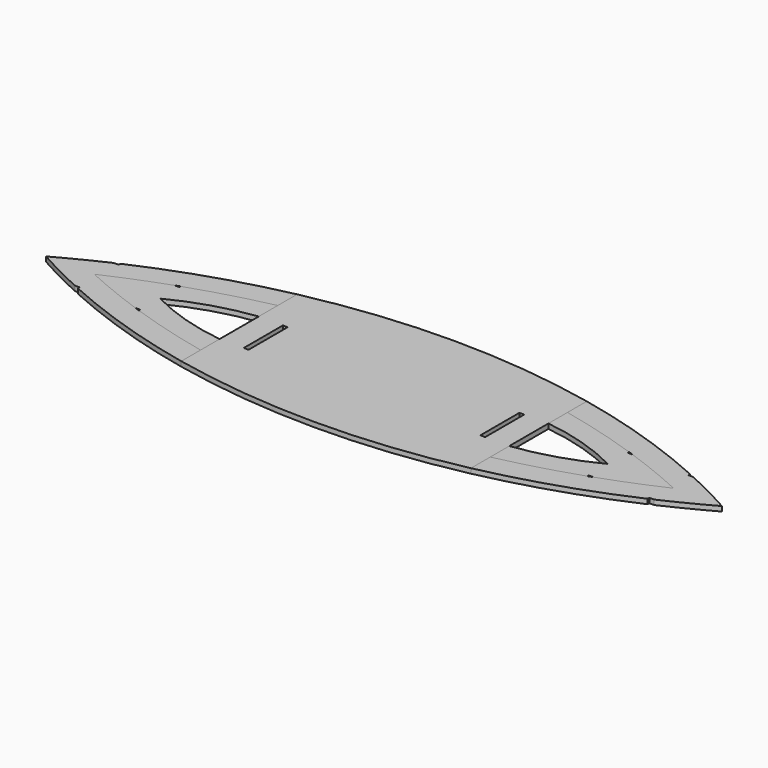
from build123d import *

# Parameters (mm, degrees)
F1_DEPTH = 10
F0_W     = 10
F0_H     = 101.273576
F2_DEPTH = 10
F3_DEPTH = 10


with BuildPart() as f1:
    # F0 (on Top) → F1 (new body)
    with BuildSketch(Plane.XY):
        with BuildLine():
            ThreePointArc((590, 55.174481), (447.518681, 110.289992), (300, 150))
            Line((300, 150), (300, 100))
            ThreePointArc((300, 100), (382.90347, 79.441189), (464.473721, 54.104573))
            ThreePointArc((464.473721, 54.104573), (469.47684, 52.379676), (474.473721, 50.636788))
            ThreePointArc((474.473721, 50.636788), (537.81967, 26.763153), (600, 0))
            ThreePointArc((600, 0), (537.81967, -26.763153), (474.473721, -50.636788))
            ThreePointArc((474.473721, -50.636788), (469.47684, -52.379676), (464.473721, -54.104573))
            ThreePointArc((464.473721, -54.104573), (382.90347, -79.441189), (300, -100))
            Line((300, -100), (300, -150))
            ThreePointArc((300, -150), (447.518681, -110.289992), (590, -55.174481))
            Line((590, -55.174481), (590, -50.636788))
            Line((590, -50.636788), (600, -50.636788))
            ThreePointArc((600, -50.636788), (650.492906, -26.291809), (700, 0))
            ThreePointArc((700, 0), (650.492906, 26.291809), (600, 50.636788))
            Line((600, 50.636788), (590, 50.636788))
            Line((590, 50.636788), (590, 55.174481))
        make_face()
        with BuildLine():
            Line((-300, 100), (-300, 150))
            ThreePointArc((-300, 150), (-447.518681, 110.289992), (-590, 55.174481))
            Line((-590, 55.174481), (-590, 50.636788))
            Line((-590, 50.636788), (-600, 50.636788))
            ThreePointArc((-600, 50.636788), (-650.492906, 26.291809), (-700, 0))
            ThreePointArc((-700, 0), (-650.492906, -26.291809), (-600, -50.636788))
            Line((-600, -50.636788), (-590, -50.636788))
            Line((-590, -50.636788), (-590, -55.174481))
            ThreePointArc((-590, -55.174481), (-447.518681, -110.289992), (-300, -150))
            Line((-300, -150), (-300, -100))
            ThreePointArc((-300, -100), (-382.90347, -79.441189), (-464.473721, -54.104573))
            ThreePointArc((-464.473721, -54.104573), (-469.47684, -52.379676), (-474.473721, -50.636788))
            ThreePointArc((-474.473721, -50.636788), (-537.81967, -26.763153), (-600, 0))
            ThreePointArc((-600, 0), (-537.81967, 26.763153), (-474.473721, 50.636788))
            ThreePointArc((-474.473721, 50.636788), (-469.47684, 52.379676), (-464.473721, 54.104573))
            ThreePointArc((-464.473721, 54.104573), (-382.90347, 79.441189), (-300, 100))
        make_face()
    extrude(amount=F1_DEPTH)


with BuildPart() as f2:
    # F0 (on Top) → F2 (new body)
    with BuildSketch(Plane.XY):
        with BuildLine():
            Line((300, 100), (300, 150))
            ThreePointArc((300, 150), (0, 181.598185), (-300, 150))
            Line((-300, 150), (-300, 100))
            Line((-300, 100), (-300, 50.636788))
            Line((-300, 50.636788), (-300, -50.636788))
            Line((-300, -50.636788), (-300, -100))
            Line((-300, -100), (-300, -150))
            ThreePointArc((-300, -150), (0, -181.598185), (300, -150))
            Line((300, -150), (300, -100))
            Line((300, -100), (300, -50.636788))
            Line((300, -50.636788), (300, 50.636788))
            Line((300, 50.636788), (300, 100))
        make_face()
        with Locations((-245, 0)):
            Rectangle(F0_W, F0_H, mode=Mode.SUBTRACT)
        with Locations((245, 0)):
            Rectangle(F0_W, F0_H, mode=Mode.SUBTRACT)
    extrude(amount=F2_DEPTH)


with BuildPart() as f3:
    # F0 (on Top) → F3 (new body)
    with BuildSketch(Plane.XY):
        with BuildLine():
            Line((-300, 50.636788), (-300, 100))
            ThreePointArc((-300, 100), (-382.90347, 79.441189), (-464.473721, 54.104573))
            Line((-464.473721, 54.104573), (-464.473721, 50.636788))
            Line((-464.473721, 50.636788), (-474.473721, 50.636788))
            ThreePointArc((-474.473721, 50.636788), (-537.81967, 26.763153), (-600, 0))
            ThreePointArc((-600, 0), (-537.81967, -26.763153), (-474.473721, -50.636788))
            Line((-474.473721, -50.636788), (-464.473721, -50.636788))
            Line((-464.473721, -50.636788), (-464.473721, -54.104573))
            ThreePointArc((-464.473721, -54.104573), (-382.90347, -79.441189), (-300, -100))
            Line((-300, -100), (-300, -50.636788))
            ThreePointArc((-300, -50.636788), (-383.988967, -32.463493), (-463.553637, 0))
            ThreePointArc((-463.553637, 0), (-383.988967, 32.463493), (-300, 50.636788))
        make_face()
        with BuildLine():
            ThreePointArc((464.473721, 54.104573), (382.90347, 79.441189), (300, 100))
            Line((300, 100), (300, 50.636788))
            ThreePointArc((300, 50.636788), (383.988967, 32.463493), (463.553637, 0))
            ThreePointArc((463.553637, 0), (383.988967, -32.463493), (300, -50.636788))
            Line((300, -50.636788), (300, -100))
            ThreePointArc((300, -100), (382.90347, -79.441189), (464.473721, -54.104573))
            Line((464.473721, -54.104573), (464.473721, -50.636788))
            Line((464.473721, -50.636788), (474.473721, -50.636788))
            ThreePointArc((474.473721, -50.636788), (537.81967, -26.763153), (600, 0))
            ThreePointArc((600, 0), (537.81967, 26.763153), (474.473721, 50.636788))
            Line((474.473721, 50.636788), (464.473721, 50.636788))
            Line((464.473721, 50.636788), (464.473721, 54.104573))
        make_face()
    extrude(amount=F3_DEPTH)


solid = Compound([f1.part, f2.part, f3.part])
